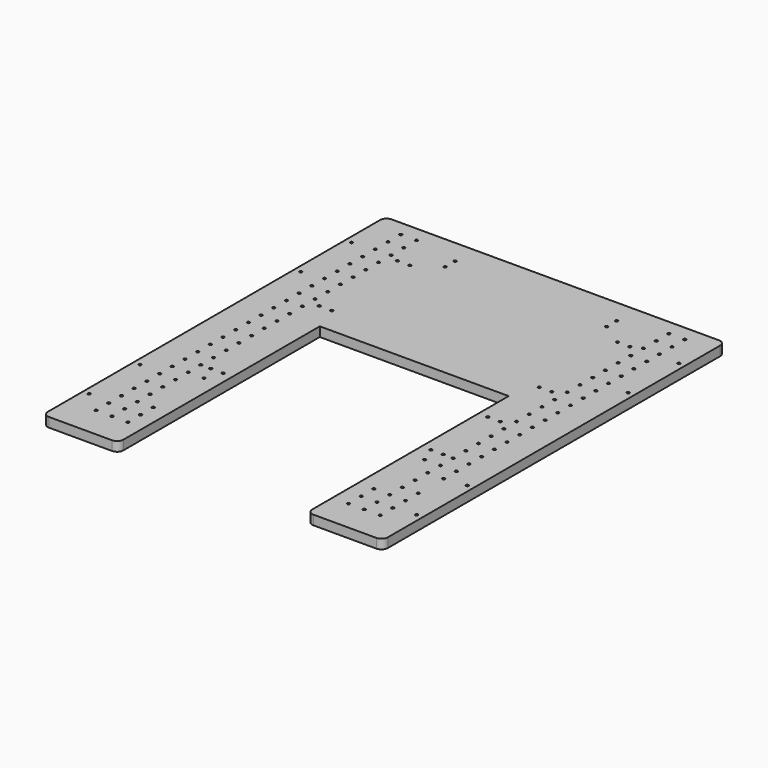
from build123d import *

# Parameters (mm, degrees)
F0_R     = 1.3589
F1_DEPTH = 9.525
F2_D     = 2.7051


with BuildPart() as f1:
    # F0 (on Top) → F1 (new body)
    with BuildSketch(Plane.XY):
        with BuildLine():
            Line((-101.6, 215.9), (-165.1, 215.9))
            ThreePointArc((-165.1, 215.9), (-169.5901280605, 214.0401280605), (-171.45, 209.55))
            Line((-171.45, 209.55), (-171.45, -209.55))
            ThreePointArc((-171.45, -209.55), (-169.5901280605, -214.0401280605), (-165.1, -215.9))
            Line((-165.1, -215.9), (-101.6, -215.9))
            ThreePointArc((-101.6, -215.9), (-97.1098719395, -214.0401280605), (-95.25, -209.55))
            Line((-95.25, -209.55), (-95.25, 38.1))
            Line((-95.25, 38.1), (-95.25, 209.55))
            Line((-95.25, 209.55), (-95.25, 215.9))
            Line((-95.25, 215.9), (-101.6, 215.9))
        make_face()
        with Locations((-165.1, -165.354)):
            Circle(F0_R, mode=Mode.SUBTRACT)
        with Locations((-143.25, -183.9)):
            Circle(F0_R, mode=Mode.SUBTRACT)
        with Locations((-143.25, -167.9)):
            Circle(F0_R, mode=Mode.SUBTRACT)
        with Locations((-127.25, -183.9)):
            Circle(F0_R, mode=Mode.SUBTRACT)
        with Locations((-111.25, -183.9)):
            Circle(F0_R, mode=Mode.SUBTRACT)
        with Locations((-127.25, -167.9)):
            Circle(F0_R, mode=Mode.SUBTRACT)
        with Locations((-111.25, -167.9)):
            Circle(F0_R, mode=Mode.SUBTRACT)
        with Locations((-143.25, -151.9)):
            Circle(F0_R, mode=Mode.SUBTRACT)
        with Locations((-143.25, -135.9)):
            Circle(F0_R, mode=Mode.SUBTRACT)
        with Locations((-143.25, -119.9)):
            Circle(F0_R, mode=Mode.SUBTRACT)
        with Locations((-127.25, -151.9)):
            Circle(F0_R, mode=Mode.SUBTRACT)
        with Locations((-111.25, -151.9)):
            Circle(F0_R, mode=Mode.SUBTRACT)
        with Locations((-127.25, -135.9)):
            Circle(F0_R, mode=Mode.SUBTRACT)
        with Locations((-127.25, -119.9)):
            Circle(F0_R, mode=Mode.SUBTRACT)
        with Locations((-165.1, -101.346)):
            Circle(F0_R, mode=Mode.SUBTRACT)
        with Locations((-143.25, -103.9)):
            Circle(F0_R, mode=Mode.SUBTRACT)
        with Locations((-143.25, -87.9)):
            Circle(F0_R, mode=Mode.SUBTRACT)
        with Locations((-143.25, -71.9)):
            Circle(F0_R, mode=Mode.SUBTRACT)
        with Locations((-143.25, -55.9)):
            Circle(F0_R, mode=Mode.SUBTRACT)
        with Locations((-127.25, -103.9)):
            Circle(F0_R, mode=Mode.SUBTRACT)
        with Locations((-127.25, -87.9)):
            Circle(F0_R, mode=Mode.SUBTRACT)
        with Locations((-111.25, -87.9)):
            Circle(F0_R, mode=Mode.SUBTRACT)
        with Locations((-127.25, -71.9)):
            Circle(F0_R, mode=Mode.SUBTRACT)
        with Locations((-117.2484129667, -71.8241557479)):
            Circle(F0_R, mode=Mode.SUBTRACT)
        with Locations((-127.25, -55.9)):
            Circle(F0_R, mode=Mode.SUBTRACT)
        with Locations((-104.7484129667, -71.8241557479)):
            Circle(F0_R, mode=Mode.SUBTRACT)
        with Locations((-143.25, -39.9)):
            Circle(F0_R, mode=Mode.SUBTRACT)
        with Locations((-143.25, -23.9)):
            Circle(F0_R, mode=Mode.SUBTRACT)
        with Locations((-143.25, -7.9)):
            Circle(F0_R, mode=Mode.SUBTRACT)
        with Locations((-127.25, -39.9)):
            Circle(F0_R, mode=Mode.SUBTRACT)
        with Locations((-127.25, -23.9)):
            Circle(F0_R, mode=Mode.SUBTRACT)
        with Locations((-127.25, -7.9)):
            Circle(F0_R, mode=Mode.SUBTRACT)
        with Locations((-143.25, 8.1)):
            Circle(F0_R, mode=Mode.SUBTRACT)
        with Locations((-143.25, 24.1)):
            Circle(F0_R, mode=Mode.SUBTRACT)
        with Locations((-143.25, 40.1)):
            Circle(F0_R, mode=Mode.SUBTRACT)
        with Locations((-127.25, 8.1)):
            Circle(F0_R, mode=Mode.SUBTRACT)
        with Locations((-127.25, 24.1)):
            Circle(F0_R, mode=Mode.SUBTRACT)
        with Locations((-127.25, 40.1)):
            Circle(F0_R, mode=Mode.SUBTRACT)
        with Locations((-143.25, 56.1)):
            Circle(F0_R, mode=Mode.SUBTRACT)
        with Locations((-143.25, 72.1)):
            Circle(F0_R, mode=Mode.SUBTRACT)
        with Locations((-165.1, 101.346)):
            Circle(F0_R, mode=Mode.SUBTRACT)
        with Locations((-143.25, 88.1)):
            Circle(F0_R, mode=Mode.SUBTRACT)
        with Locations((-143.25, 104.1)):
            Circle(F0_R, mode=Mode.SUBTRACT)
        with Locations((-127.25, 56.1)):
            Circle(F0_R, mode=Mode.SUBTRACT)
        with Locations((-117.2484129667, 64.9523502198)):
            Circle(F0_R, mode=Mode.SUBTRACT)
        with Locations((-127.25, 72.1)):
            Circle(F0_R, mode=Mode.SUBTRACT)
        with Locations((-104.7484129667, 64.9523502198)):
            Circle(F0_R, mode=Mode.SUBTRACT)
        with Locations((-127.25, 88.1)):
            Circle(F0_R, mode=Mode.SUBTRACT)
        with Locations((-127.25, 104.1)):
            Circle(F0_R, mode=Mode.SUBTRACT)
        with Locations((-143.25, 120.1)):
            Circle(F0_R, mode=Mode.SUBTRACT)
        with Locations((-143.25, 136.1)):
            Circle(F0_R, mode=Mode.SUBTRACT)
        with Locations((-143.25, 152.1)):
            Circle(F0_R, mode=Mode.SUBTRACT)
        with Locations((-127.25, 120.1)):
            Circle(F0_R, mode=Mode.SUBTRACT)
        with Locations((-127.25, 136.1)):
            Circle(F0_R, mode=Mode.SUBTRACT)
        with Locations((-127.25, 152.1)):
            Circle(F0_R, mode=Mode.SUBTRACT)
        with Locations((-165.1, 165.354)):
            Circle(F0_R, mode=Mode.SUBTRACT)
        with Locations((-143.25, 168.1)):
            Circle(F0_R, mode=Mode.SUBTRACT)
        with Locations((-143.25, 184.1)):
            Circle(F0_R, mode=Mode.SUBTRACT)
        with Locations((-143.25, 200.1)):
            Circle(F0_R, mode=Mode.SUBTRACT)
        with Locations((-127.25, 168.1)):
            Circle(F0_R, mode=Mode.SUBTRACT)
        with Locations((-117.2484129667, 163.5081171989)):
            Circle(F0_R, mode=Mode.SUBTRACT)
        with Locations((-127.25, 184.1)):
            Circle(F0_R, mode=Mode.SUBTRACT)
        with Locations((-104.7484129667, 163.5081171989)):
            Circle(F0_R, mode=Mode.SUBTRACT)
        with Locations((-127.25, 200.1)):
            Circle(F0_R, mode=Mode.SUBTRACT)
        with BuildLine():
            Line((101.6, 215.9), (95.25, 215.9))
            Line((95.25, 215.9), (95.25, 209.55))
            Line((95.25, 209.55), (95.25, 38.1))
            Line((95.25, 38.1), (95.25, -209.55))
            ThreePointArc((95.25, -209.55), (97.1098719395, -214.0401280605), (101.6, -215.9))
            Line((101.6, -215.9), (165.1, -215.9))
            ThreePointArc((165.1, -215.9), (169.5901280605, -214.0401280605), (171.45, -209.55))
            Line((171.45, -209.55), (171.45, 209.55))
            ThreePointArc((171.45, 209.55), (169.5901280605, 214.0401280605), (165.1, 215.9))
            Line((165.1, 215.9), (101.6, 215.9))
        make_face()
        with Locations((111.25, -183.9)):
            Circle(F0_R, mode=Mode.SUBTRACT)
        with Locations((127.25, -183.9)):
            Circle(F0_R, mode=Mode.SUBTRACT)
        with Locations((111.25, -167.9)):
            Circle(F0_R, mode=Mode.SUBTRACT)
        with Locations((127.25, -167.9)):
            Circle(F0_R, mode=Mode.SUBTRACT)
        with Locations((143.25, -183.9)):
            Circle(F0_R, mode=Mode.SUBTRACT)
        with Locations((143.25, -167.9)):
            Circle(F0_R, mode=Mode.SUBTRACT)
        with Locations((165.1, -165.354)):
            Circle(F0_R, mode=Mode.SUBTRACT)
        with Locations((111.25, -151.9)):
            Circle(F0_R, mode=Mode.SUBTRACT)
        with Locations((127.25, -151.9)):
            Circle(F0_R, mode=Mode.SUBTRACT)
        with Locations((127.25, -135.9)):
            Circle(F0_R, mode=Mode.SUBTRACT)
        with Locations((127.25, -119.9)):
            Circle(F0_R, mode=Mode.SUBTRACT)
        with Locations((143.25, -151.9)):
            Circle(F0_R, mode=Mode.SUBTRACT)
        with Locations((143.25, -135.9)):
            Circle(F0_R, mode=Mode.SUBTRACT)
        with Locations((127.25, -103.9)):
            Circle(F0_R, mode=Mode.SUBTRACT)
        with Locations((111.25, -87.9)):
            Circle(F0_R, mode=Mode.SUBTRACT)
        with Locations((127.25, -87.9)):
            Circle(F0_R, mode=Mode.SUBTRACT)
        with Locations((104.7484129667, -71.8241557479)):
            Circle(F0_R, mode=Mode.SUBTRACT)
        with Locations((117.2484129667, -71.8241557479)):
            Circle(F0_R, mode=Mode.SUBTRACT)
        with Locations((127.25, -71.9)):
            Circle(F0_R, mode=Mode.SUBTRACT)
        with Locations((127.25, -55.9)):
            Circle(F0_R, mode=Mode.SUBTRACT)
        with Locations((143.25, -103.9)):
            Circle(F0_R, mode=Mode.SUBTRACT)
        with Locations((143.25, -87.9)):
            Circle(F0_R, mode=Mode.SUBTRACT)
        with Locations((165.1, -101.346)):
            Circle(F0_R, mode=Mode.SUBTRACT)
        with Locations((143.25, -71.9)):
            Circle(F0_R, mode=Mode.SUBTRACT)
        with Locations((143.25, -55.9)):
            Circle(F0_R, mode=Mode.SUBTRACT)
        with Locations((127.25, -39.9)):
            Circle(F0_R, mode=Mode.SUBTRACT)
        with Locations((127.25, -23.9)):
            Circle(F0_R, mode=Mode.SUBTRACT)
        with Locations((127.25, -7.9)):
            Circle(F0_R, mode=Mode.SUBTRACT)
        with Locations((143.25, -39.9)):
            Circle(F0_R, mode=Mode.SUBTRACT)
        with Locations((143.25, -23.9)):
            Circle(F0_R, mode=Mode.SUBTRACT)
        with Locations((143.25, -7.9)):
            Circle(F0_R, mode=Mode.SUBTRACT)
        with Locations((104.7484129667, 0)):
            Circle(F0_R, mode=Mode.SUBTRACT)
        with Locations((117.2484129667, 0)):
            Circle(F0_R, mode=Mode.SUBTRACT)
        with Locations((127.25, 8.1)):
            Circle(F0_R, mode=Mode.SUBTRACT)
        with Locations((127.25, 24.1)):
            Circle(F0_R, mode=Mode.SUBTRACT)
        with Locations((127.25, 40.1)):
            Circle(F0_R, mode=Mode.SUBTRACT)
        with Locations((143.25, 8.1)):
            Circle(F0_R, mode=Mode.SUBTRACT)
        with Locations((143.25, 24.1)):
            Circle(F0_R, mode=Mode.SUBTRACT)
        with Locations((143.25, 40.1)):
            Circle(F0_R, mode=Mode.SUBTRACT)
        with Locations((104.7484129667, 64.9523502198)):
            Circle(F0_R, mode=Mode.SUBTRACT)
        with Locations((117.2484129667, 64.9523502198)):
            Circle(F0_R, mode=Mode.SUBTRACT)
        with Locations((127.25, 56.1)):
            Circle(F0_R, mode=Mode.SUBTRACT)
        with Locations((127.25, 72.1)):
            Circle(F0_R, mode=Mode.SUBTRACT)
        with Locations((127.25, 88.1)):
            Circle(F0_R, mode=Mode.SUBTRACT)
        with Locations((127.25, 104.1)):
            Circle(F0_R, mode=Mode.SUBTRACT)
        with Locations((143.25, 56.1)):
            Circle(F0_R, mode=Mode.SUBTRACT)
        with Locations((143.25, 72.1)):
            Circle(F0_R, mode=Mode.SUBTRACT)
        with Locations((143.25, 88.1)):
            Circle(F0_R, mode=Mode.SUBTRACT)
        with Locations((143.25, 104.1)):
            Circle(F0_R, mode=Mode.SUBTRACT)
        with Locations((165.1, 101.346)):
            Circle(F0_R, mode=Mode.SUBTRACT)
        with Locations((127.25, 120.1)):
            Circle(F0_R, mode=Mode.SUBTRACT)
        with Locations((127.25, 136.1)):
            Circle(F0_R, mode=Mode.SUBTRACT)
        with Locations((127.25, 152.1)):
            Circle(F0_R, mode=Mode.SUBTRACT)
        with Locations((143.25, 120.1)):
            Circle(F0_R, mode=Mode.SUBTRACT)
        with Locations((143.25, 136.1)):
            Circle(F0_R, mode=Mode.SUBTRACT)
        with Locations((143.25, 152.1)):
            Circle(F0_R, mode=Mode.SUBTRACT)
        with Locations((104.7484129667, 163.5081171989)):
            Circle(F0_R, mode=Mode.SUBTRACT)
        with Locations((117.2484129667, 163.5081171989)):
            Circle(F0_R, mode=Mode.SUBTRACT)
        with Locations((127.25, 168.1)):
            Circle(F0_R, mode=Mode.SUBTRACT)
        with Locations((127.25, 184.1)):
            Circle(F0_R, mode=Mode.SUBTRACT)
        with Locations((127.25, 200.1)):
            Circle(F0_R, mode=Mode.SUBTRACT)
        with Locations((143.25, 168.1)):
            Circle(F0_R, mode=Mode.SUBTRACT)
        with Locations((143.25, 184.1)):
            Circle(F0_R, mode=Mode.SUBTRACT)
        with Locations((165.1, 165.354)):
            Circle(F0_R, mode=Mode.SUBTRACT)
        with Locations((143.25, 200.1)):
            Circle(F0_R, mode=Mode.SUBTRACT)
        Polygon((0, 215.9), (-95.25, 215.9), (-95.25, 209.55), (-95.25, 38.1), (0, 38.1), align=None)
        with Locations((-81.4659297466, 178.9239645004)):
            Circle(F0_R, mode=Mode.SUBTRACT)
        with Locations((-81.4659297466, 191.4239645004)):
            Circle(F0_R, mode=Mode.SUBTRACT)
        Polygon((95.25, 215.9), (0, 215.9), (0, 38.1), (95.25, 38.1), (95.25, 209.55), align=None)
        with Locations((81.4659297466, 178.9239645004)):
            Circle(F0_R, mode=Mode.SUBTRACT)
        with Locations((81.4659297466, 191.4239645004)):
            Circle(F0_R, mode=Mode.SUBTRACT)
        with Locations((-165.1, 165.354)):
            Circle(F0_R)
        with Locations((-165.1, 101.346)):
            Circle(F0_R)
        with Locations((-165.1, -101.346)):
            Circle(F0_R)
        with Locations((-165.1, -165.354)):
            Circle(F0_R)
        with Locations((165.1, -165.354)):
            Circle(F0_R)
        with Locations((165.1, -101.346)):
            Circle(F0_R)
        with Locations((165.1, 101.346)):
            Circle(F0_R)
        with Locations((165.1, 165.354)):
            Circle(F0_R)
    extrude(amount=F1_DEPTH)

    # F2 (through all)
    with Locations(Plane(origin=(0, 0, 0), x_dir=(1, 0, 0), z_dir=(0, 0, -1))):
        with Locations((-165.1, 101.346), (-165.1, 165.354), (-165.1, -165.354), (-165.1, -101.346), (165.1, -165.354), (165.1, -101.346), (165.1, 101.346), (165.1, 165.354), (-111.25, 151.9), (-111.25, 167.9), (-111.25, 183.9), (-111.25, 87.9)):
            Hole(F2_D / 2)


solid = f1.part
